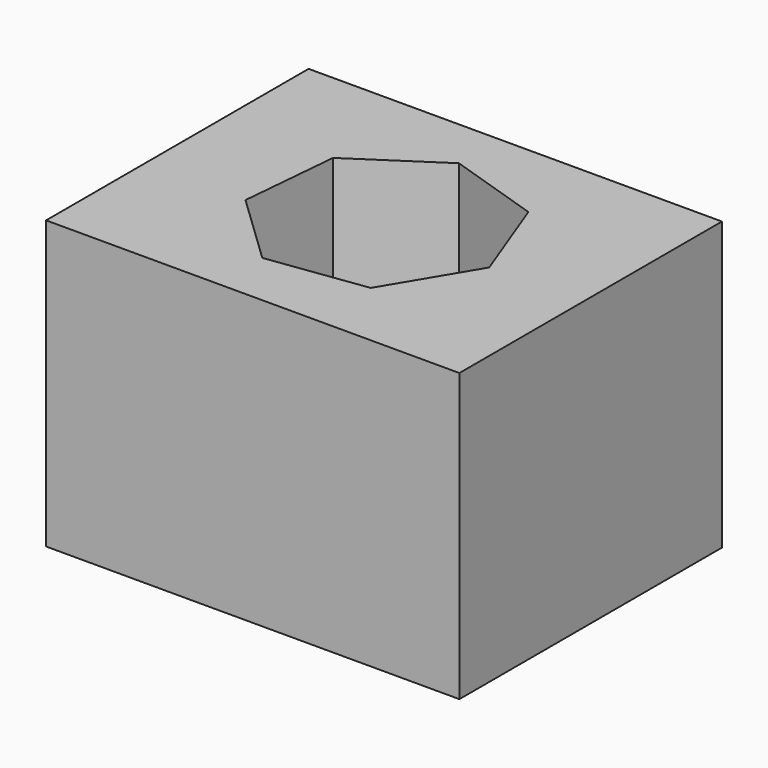
from build123d import *

# Parameters (mm, degrees)
F0_W     = 127.972096
F0_H     = 88.9
F1_DEPTH = 50.8
F3_DEPTH = 63.5


with BuildPart() as f1:
    # F0 (on Front) → F1 (new body, symmetric)
    with BuildSketch(Plane.XZ):
        Rectangle(F0_W, F0_H)
    extrude(amount=F1_DEPTH, both=True)

    # F2 (on Top) → F3 (cut, symmetric)
    with BuildSketch(Plane.XY):
        Polygon((35.083641, -3.146577), (24.334385, 25.467637), (-4.739159, 34.9042), (-30.24402, 18.057189), (-32.974517, -12.387254), (-10.87453, -33.503842), (19.4142, -29.391354), align=None)
    extrude(amount=F3_DEPTH, both=True, mode=Mode.SUBTRACT)


solid = f1.part
